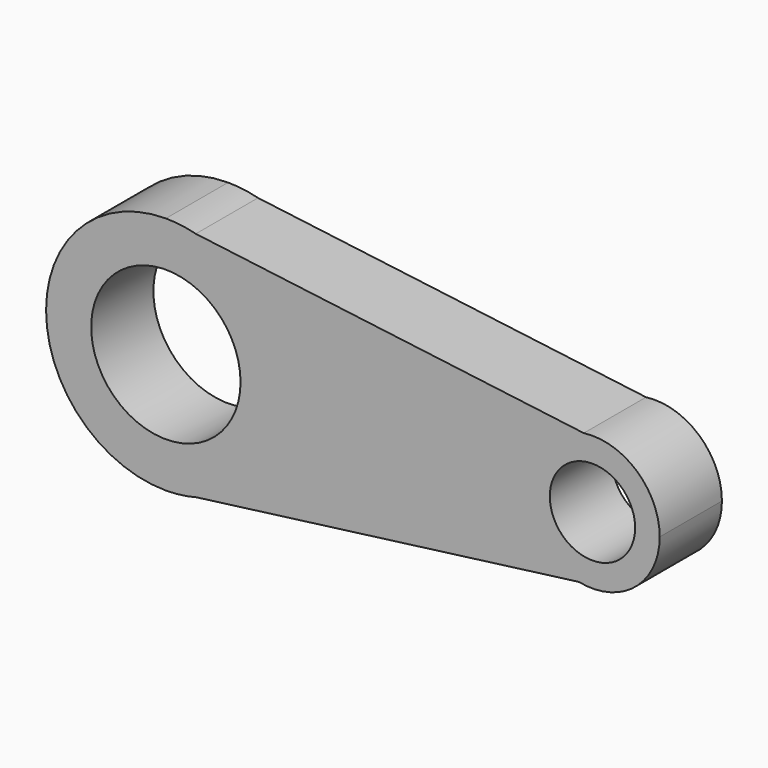
from build123d import *

# Parameters (mm, degrees)
F0_R     = 24.394867
F0_R_2   = 13.938556
F1_DEPTH = 25.4


with BuildPart() as f1:
    # F0 (on Front) → F1 (new body)
    with BuildSketch(Plane.XZ):
        with BuildLine():
            Line((9.7775, 37.878718), (0, 39.120286))
            ThreePointArc((0, 39.120286), (-39.120286, 0), (0, -39.120286))
            Line((0, -39.120286), (10.037051, -37.810771))
            ThreePointArc((10.037051, -37.810771), (31.008459, -23.851043), (39.120286, 0))
            ThreePointArc((39.120286, 0), (30.926488, 23.957235), (9.7775, 37.878718))
        make_face()
        Circle(F0_R, mode=Mode.SUBTRACT)
        with BuildLine():
            ThreePointArc((9.7775, 37.878718), (4.928007, 38.808653), (0, 39.120286))
            Line((0, 39.120286), (9.7775, 37.878718))
        make_face()
        with BuildLine():
            Line((10.037051, -37.810771), (0, -39.120286))
            ThreePointArc((0, -39.120286), (5.061058, -38.791526), (10.037051, -37.810771))
        make_face()
        with BuildLine():
            Line((136.504284, 21.786677), (9.7775, 37.878718))
            ThreePointArc((9.7775, 37.878718), (30.926488, 23.957235), (39.120286, 0))
            ThreePointArc((39.120286, 0), (31.008459, -23.851043), (10.037051, -37.810771))
            Line((10.037051, -37.810771), (134.907467, -21.519161))
            ThreePointArc((134.907467, -21.519161), (117.378733, 0.809535), (136.504284, 21.786677))
        make_face()
        with BuildLine():
            ThreePointArc((161.303011, 0), (153.833558, 16.504819), (136.504284, 21.786677))
            ThreePointArc((136.504284, 21.786677), (117.378733, 0.809535), (134.907467, -21.519161))
            ThreePointArc((134.907467, -21.519161), (153.215541, -17.027911), (161.303011, 0))
        make_face()
        with Locations((139.333412, 0)):
            Circle(F0_R_2, mode=Mode.SUBTRACT)
    extrude(amount=F1_DEPTH)


solid = f1.part
